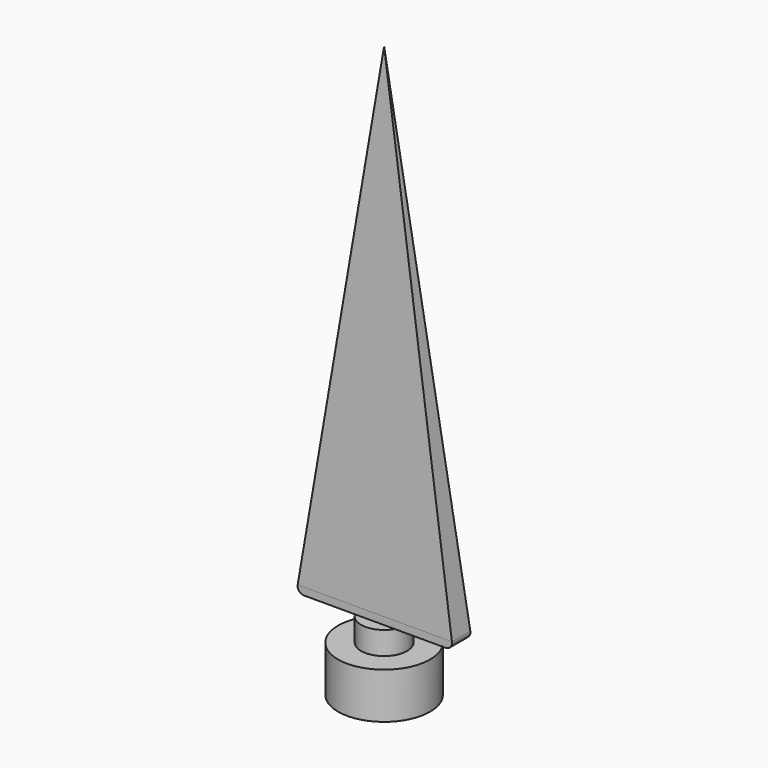
from build123d import *

# Parameters (mm, degrees)
F0_W     = 6.35
F0_H     = 6.355425
F2_DEPTH = 3.175
F3_R     = 1.778
F5_DEPTH = 31.75


with BuildPart() as f1:
    # F0 (on Front) → F1 (revolve)
    with BuildSketch(Plane.XZ):
        Polygon((-20.18295, -62.434783), (-20.18295, -75.134783), (-7.48295, -75.134783), (-7.48295, -62.434783), (-13.83295, -62.434783), align=None)
        with Locations((-4.30795, -59.25707)):
            Rectangle(F0_W, F0_H)
    revolve(axis=Axis((-7.48295, 0, -65.607071), (0, 0, -1)))


with BuildPart() as f2:
    # F0 (on Front) → F2 (new body, symmetric)
    with BuildSketch(Plane.XZ):
        Polygon((-29.137837, -56.079358), (-13.83295, -56.079358), (-7.48295, -56.079358), (-1.13295, -56.079358), (14.111359, -56.079358), (-7.48295, 82.601726), align=None)
    extrude(amount=F2_DEPTH, both=True)

    # F3
    f3_edges = [f2.edges().sort_by_distance(p)[0] for p in [
        (-29.137837, 0, -56.079358),
        (14.111359, 0, -56.079358),
    ]]
    fillet(f3_edges, radius=F3_R)

    # F4 (on Right) → F5 (cut, symmetric)
    with BuildSketch(Plane.YZ):
        Polygon((-3.175, 82.601726), (-3.175, -54.027798), (0, 82.601726), align=None)
        Polygon((3.175, 82.601726), (0, 82.601726), (3.175, -54.027798), align=None)
    extrude(amount=F5_DEPTH, both=True, mode=Mode.SUBTRACT)


solid = Compound([f1.part, f2.part])
